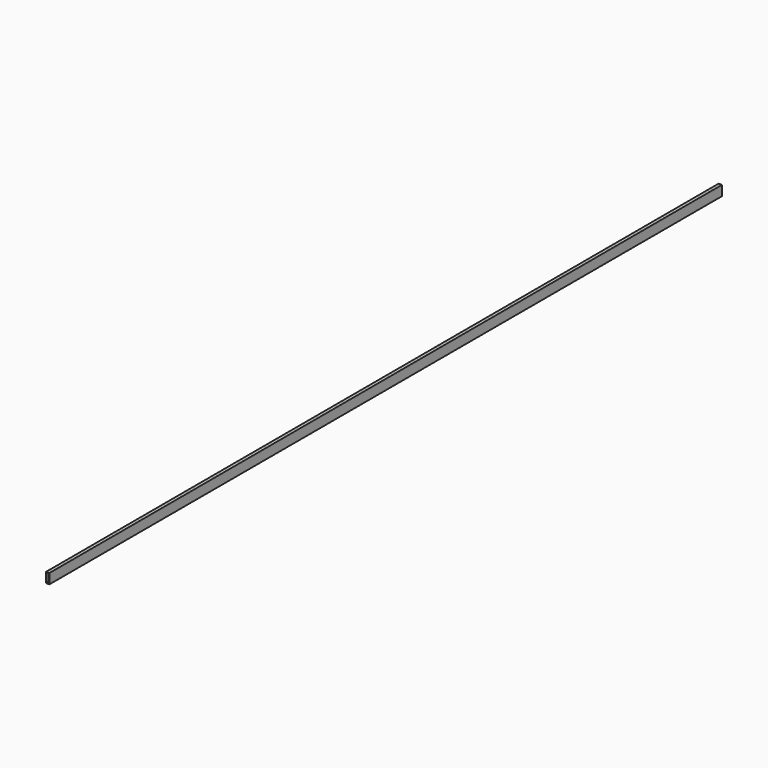
from build123d import *

# Parameters (mm, degrees)
F0_W     = 50.8
F0_H     = 152.4
F0_W_2   = 41.275
F0_H_2   = 142.875
F1_DEPTH = 12801.6


with BuildPart() as f1:
    # F0 (on Front) → F1 (new body)
    with BuildSketch(Plane.XZ):
        with Locations((25.4, 76.2)):
            Rectangle(F0_W, F0_H)
        with Locations((25.4, 76.2)):
            Rectangle(F0_W_2, F0_H_2, mode=Mode.SUBTRACT)
    extrude(amount=-F1_DEPTH)


solid = f1.part
